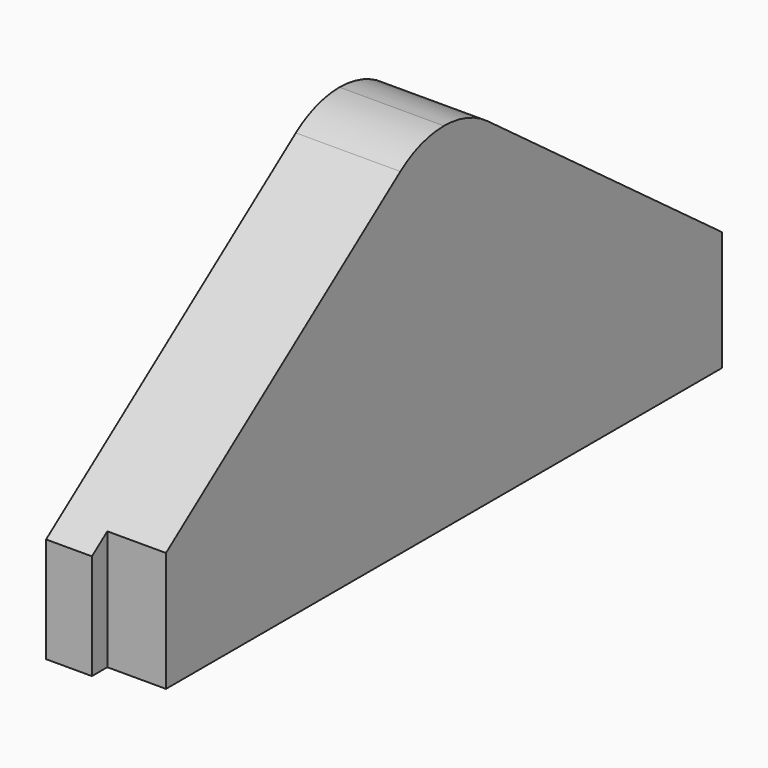
from build123d import *

# Parameters (mm, degrees)
F1_DEPTH = 5.7912
F3_DEPTH = 3.2512


with BuildPart() as f1:
    # F0 (on Right) → F1 (new body)
    with BuildSketch(Plane.YZ):
        with BuildLine():
            Line((20.32, 0.3259240077), (3.0216997567, 13.1259928519))
            ThreePointArc((3.0216997567, 13.1259928519), (1.5908721369, 13.8668715611), (0, 14.1224))
            ThreePointArc((0, 14.1224), (-1.5908721369, 13.8668715611), (-3.0216997567, 13.1259928519))
            Line((-3.0216997567, 13.1259928519), (-20.32, 0.3259240077))
            Line((-20.32, 0.3259240077), (-20.32, -5.5160759923))
            Line((-20.32, -5.5160759923), (20.32, -5.5160759923))
            Line((20.32, -5.5160759923), (20.32, 0.3259240077))
        make_face()
    extrude(amount=F1_DEPTH)

    # F2 (on face) → F3 (cut)
    with BuildSketch(Plane.YZ.offset(5.7912)):
        Polygon((20.32, -5.5160759923), (20.32, 0.3259240077), (19.2532, 1.1153144826), (19.2532, -5.5160759923), align=None)
        Polygon((-19.2532, 1.1153144826), (-20.32, 0.3259240077), (-20.32, -5.5160759923), (-19.2532, -5.5160759923), align=None)
    extrude(amount=-F3_DEPTH, mode=Mode.SUBTRACT)


solid = f1.part
